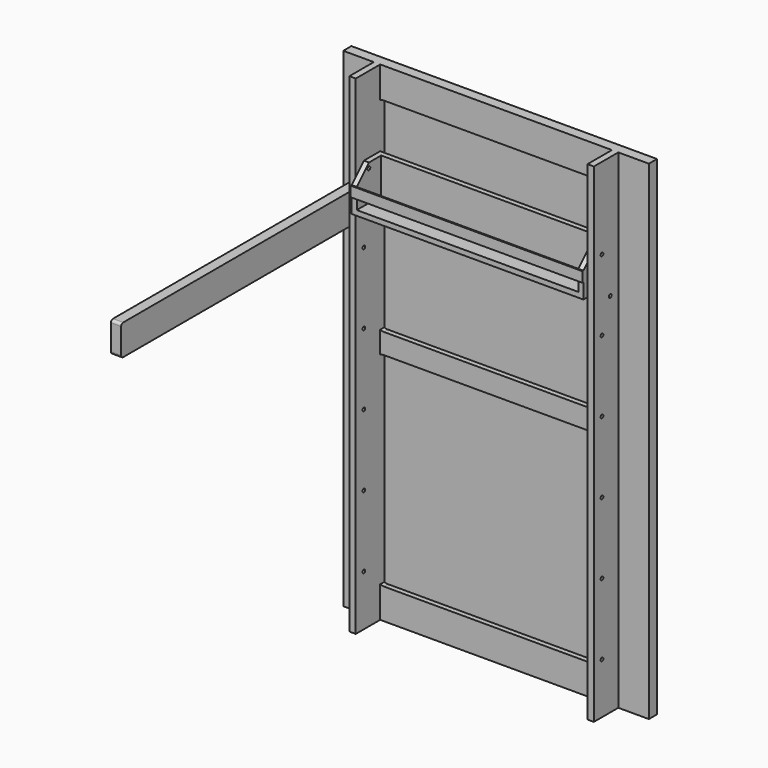
from build123d import *

# Parameters (mm, degrees)
F0_W      = 762
F0_H      = 1219.2
F1_DEPTH  = 25.4
F3_DEPTH  = 12.7
F4_W      = 15.875
F4_H      = 1219.2
F5_DEPTH  = 88.9
F7_D      = 8.4328
F8_R      = 4.2164
F9_DEPTH  = 577.85
F11_W     = 76.2
F11_H     = 88.9
F12_DEPTH = 552.45
F13_R     = 4.2164
F14_DEPTH = 25.4
F15_W     = 577.85
F15_H     = 25.4
F16_DEPTH = 3.175


with BuildPart() as f1:
    # F0 (on Front) → F1 (new body)
    with BuildSketch(Plane.XZ):
        with Locations((0, 609.6)):
            Rectangle(F0_W, F0_H)
    extrude(amount=F1_DEPTH)

    # F2 (on face) → F3 (cut)
    with BuildSketch(Plane.XZ.offset(25.4)):
        with BuildLine():
            Line((279.4, 1143), (-279.4, 1143))
            ThreePointArc((-279.4, 1143), (-297.3605122421, 1135.5605122421), (-304.8, 1117.6))
            Line((-304.8, 1117.6), (-304.8, 660.4))
            ThreePointArc((-304.8, 660.4), (-297.3605122421, 642.4394877579), (-279.4, 635))
            Line((-279.4, 635), (279.4, 635))
            ThreePointArc((279.4, 635), (297.3605122421, 642.4394877579), (304.8, 660.4))
            Line((304.8, 660.4), (304.8, 1117.6))
            ThreePointArc((304.8, 1117.6), (297.3605122421, 1135.5605122421), (279.4, 1143))
        make_face()
        with BuildLine():
            ThreePointArc((-304.8, 101.6), (-297.3605122421, 83.6394877579), (-279.4, 76.2))
            Line((-279.4, 76.2), (279.4, 76.2))
            ThreePointArc((279.4, 76.2), (297.3605122421, 83.6394877579), (304.8, 101.6))
            Line((304.8, 101.6), (304.8, 558.8))
            ThreePointArc((304.8, 558.8), (297.3605122421, 576.7605122421), (279.4, 584.2))
            Line((279.4, 584.2), (-279.4, 584.2))
            ThreePointArc((-279.4, 584.2), (-297.3605122421, 576.7605122421), (-304.8, 558.8))
            Line((-304.8, 558.8), (-304.8, 101.6))
        make_face()
    extrude(amount=-F3_DEPTH, mode=Mode.SUBTRACT)

    # F4 (on face) → F5 (join)
    with BuildSketch(Plane.XZ.offset(12.7)):
        with Locations((-296.8625, 609.6)):
            Rectangle(F4_W, F4_H)
        with Locations((296.8625, 609.6)):
            Rectangle(F4_W, F4_H)
    extrude(amount=F5_DEPTH)

    # F7 (through all)
    with Locations(Plane(origin=(-304.8, 0, 0), x_dir=(0, -1, 0), z_dir=(-1, 0, 0))):
        with Locations((76.2, 1016), (76.2, 838.2), (76.2, 660.4), (76.2, 482.6), (76.2, 304.8), (76.2, 127), (50.8, 914.4)):
            Hole(F7_D / 2)


with BuildPart() as f9:
    # F8 (on face) → F9 (new body)
    with BuildSketch(Plane.YZ.offset(-288.925)):
        Polygon((-25.4, 1028.7), (-76.2, 1028.7), (-114.3, 990.6), (-114.3, 927.1), (-25.4, 927.1), align=None)
        with Locations((-76.2, 1016)):
            Circle(F8_R, mode=Mode.SUBTRACT)
    extrude(amount=F9_DEPTH)

    # F11 (on offset) → F12 (cut)
    with BuildSketch(Plane(origin=(-276.225, 0, 0), x_dir=(0, -1, 0), z_dir=(-1, 0, 0))):
        with Locations((76.2, 984.25)):
            Rectangle(F11_W, F11_H)
    extrude(amount=-F12_DEPTH, mode=Mode.SUBTRACT)

    # F15 (on face) → F16 (join)
    with BuildSketch(Plane.XZ.offset(114.3)):
        with Locations((0, 977.9)):
            Rectangle(F15_W, F15_H)
    extrude(amount=F16_DEPTH)


with BuildPart() as f14:
    # F13 (on face) → F14 (new body)
    with BuildSketch(Plane(origin=(-304.8, 0, 0), x_dir=(0, -1, 0), z_dir=(-1, 0, 0))):
        with BuildLine():
            Line((806.45, 965.2), (31.75, 965.2))
            ThreePointArc((31.75, 965.2), (27.2598719395, 963.3401280605), (25.4, 958.85))
            Line((25.4, 958.85), (25.4, 914.4))
            ThreePointArc((25.4, 914.4), (32.8394877579, 896.4394877579), (50.8, 889))
            Line((50.8, 889), (806.45, 889))
            ThreePointArc((806.45, 889), (810.9401280605, 890.8598719395), (812.8, 895.35))
            Line((812.8, 895.35), (812.8, 958.85))
            ThreePointArc((812.8, 958.85), (810.9401280605, 963.3401280605), (806.45, 965.2))
        make_face()
        with Locations((50.8, 914.4)):
            Circle(F13_R, mode=Mode.SUBTRACT)
    extrude(amount=F14_DEPTH)


solid = Compound([f1.part, f9.part, f14.part])
